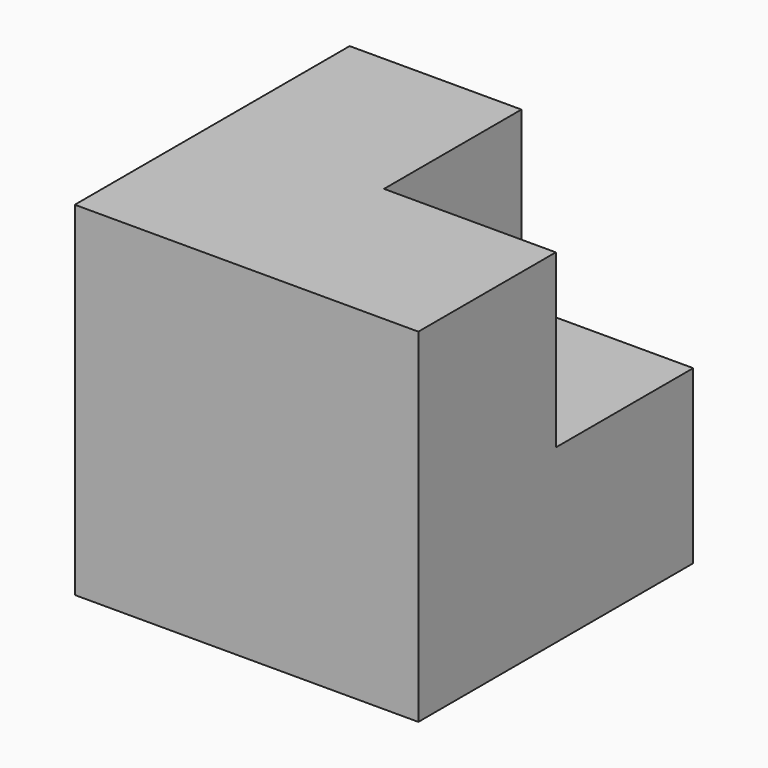
from build123d import *

# Parameters (mm, degrees)
BOX001_W     = 10
BOX001_H     = 10
BOX001_DEPTH = 10
BOX_W        = 10
BOX_H        = 10
BOX_DEPTH    = 10


with BuildPart() as obj1:
    # Box001 → Box001 (new body)
    with BuildSketch(Plane(origin=(5, 5, 5), x_dir=(1, 0, 0), z_dir=(0, 0, 1))):
        with Locations((5, 5)):
            Rectangle(BOX001_W, BOX001_H)
    extrude(amount=BOX001_DEPTH)


with BuildPart() as cut:
    # Box → Box (new body)
    with BuildSketch(Plane.XY):
        with Locations((5, 5)):
            Rectangle(BOX_W, BOX_H)
    extrude(amount=BOX_DEPTH)

    # Cut: cut obj1
    add(obj1.part, mode=Mode.SUBTRACT)


solid = cut.part
